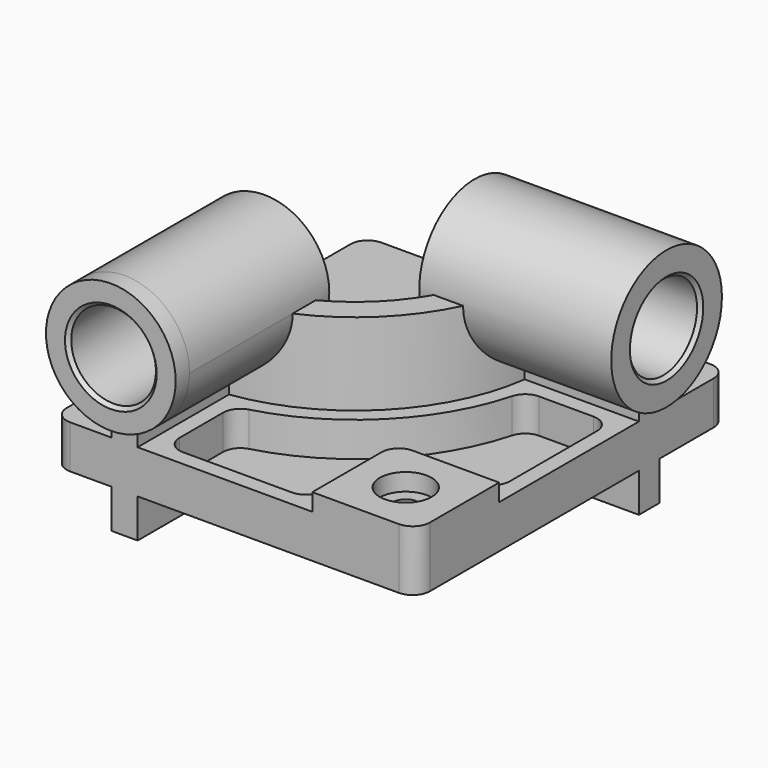
from build123d import *

# Parameters (mm, degrees)
F0_W            = 210
F0_H            = 225
F1_DEPTH        = 12.5
F3_DEPTH        = 47.5
F4_R            = 37.5
F5_DEPTH        = 10
F5_DEPTH_BACK   = 101
F6_R            = 40
F7_DEPTH        = 10
F7_DEPTH_BACK   = 101
F8_W            = 60
F8_H            = 60
F9_DEPTH        = 10
F10_R           = 10
F12_DEPTH       = 20
F14_D           = 1.5
F14_CBORE_D     = 3
F14_CBORE_DEPTH = 1
F16_D           = 15
F16_CBORE_D     = 30
F16_CBORE_DEPTH = 10
F17_R           = 10
F18_R           = 24.5
F19_DEPTH       = 235.001
F20_R           = 24.5
F21_DEPTH       = 220.001
F22_SIZE        = 2


with BuildPart() as f1:
    # F0 (on Top) → F1 (new body, symmetric)
    with BuildSketch(Plane.XY):
        Rectangle(F0_W, F0_H)
    extrude(amount=F1_DEPTH, both=True)

    # F2 (on face) → F3 (join, symmetric)
    with BuildSketch(Plane.XY.offset(12.5)):
        with BuildLine():
            Line((105, 48.5), (105, 63.5))
            Line((105, 63.5), (25, 63.5))
            ThreePointArc((25, 63.5), (-3.1177490061, -4.3822509939), (-71, -32.5))
            Line((-71, -32.5), (-71, -112.5))
            Line((-71, -112.5), (-56, -112.5))
            Line((-56, -112.5), (-56, -46.4818166789))
            ThreePointArc((-56, -46.4818166789), (7.4888527117, -14.9888527117), (38.9818166789, 48.5))
            Line((38.9818166789, 48.5), (105, 48.5))
        make_face()
    extrude(amount=F3_DEPTH, both=True)

    # F4 (on face) → F5 (join, two sides)
    with BuildSketch(Plane.XZ.offset(112.5)) as f5_sk:
        with Locations((-63.5, 60)):
            Circle(F4_R)
    extrude(amount=F5_DEPTH)
    extrude(f5_sk.sketch, amount=-F5_DEPTH_BACK)

    # F6 (on face) → F7 (join, two sides)
    with BuildSketch(Plane.YZ.offset(105)) as f7_sk:
        with Locations((56, 60)):
            Circle(F6_R)
    extrude(amount=F7_DEPTH)
    extrude(f7_sk.sketch, amount=-F7_DEPTH_BACK)

    # F8 (on face) → F9 (join)
    with BuildSketch(Plane.XY.offset(12.5)):
        with Locations((75, -82.5)):
            Rectangle(F8_W, F8_H)
    extrude(amount=F9_DEPTH)

    # F10
    f10_edges = [f1.edges().sort_by_distance(p)[0] for p in [
        (45, -52.5, 17.5),
    ]]
    fillet(f10_edges, radius=F10_R)

    # F11 (on face) → F12 (cut)
    with BuildSketch(Plane.XY.offset(12.5)):
        with BuildLine():
            ThreePointArc((46.5755076536, 39.5), (13.8528137424, -21.3528137424), (-47, -54.0755076536))
            Line((-47, -54.0755076536), (-47, -103.5))
            Line((-47, -103.5), (36, -103.5))
            Line((36, -103.5), (36, -62.5))
            ThreePointArc((36, -62.5), (41.5649711575, -49.0649711575), (55, -43.5))
            Line((55, -43.5), (96, -43.5))
            Line((96, -43.5), (96, 39.5))
            Line((96, 39.5), (46.5755076536, 39.5))
        make_face()
    extrude(amount=-F12_DEPTH, mode=Mode.SUBTRACT)

    # F14 (through all)
    with Locations(Plane.XY.offset(22.5)):
        with Locations((75, -82.5)):
            CounterBoreHole(F14_D / 2, F14_CBORE_D / 2, F14_CBORE_DEPTH)

    # F16 (through all)
    with Locations(Plane.XY.offset(22.5)):
        with Locations((75, -82.5)):
            CounterBoreHole(F16_D / 2, F16_CBORE_D / 2, F16_CBORE_DEPTH)

    # F17
    f17_edges = [f1.edges().sort_by_distance(p)[0] for p in [
        (-47, -54.075508, 2.5),
        (46.575508, 39.5, 2.5),
        (-105, -112.5, 0),
        (105, -112.5, 5),
        (105, 112.5, 0),
        (36, -103.5, 2.5),
        (96, -43.5, 2.5),
        (-47, -103.5, 2.5),
        (96, 39.5, 2.5),
        (-105, 112.5, 0),
    ]]
    fillet(f17_edges, radius=F17_R)

    # F18 (on face) → F19 (cut, through all)
    with BuildSketch(Plane.XZ.offset(122.5)):
        with Locations((-63.5, 60)):
            Circle(F18_R)
    extrude(amount=-F19_DEPTH, mode=Mode.SUBTRACT)

    # F20 (on face) → F21 (cut, through all)
    with BuildSketch(Plane.YZ.offset(115)):
        with Locations((56, 60)):
            Circle(F20_R)
    extrude(amount=-F21_DEPTH, mode=Mode.SUBTRACT)

    # F22
    f22_edges = [f1.edges().sort_by_distance(p)[0] for p in [
        (-88, -122.5, 60),
        (115, 31.5, 60),
        (4, 31.5, 60),
        (-88, -11.5, 60),
    ]]
    chamfer(f22_edges, length=F22_SIZE)


solid = f1.part
